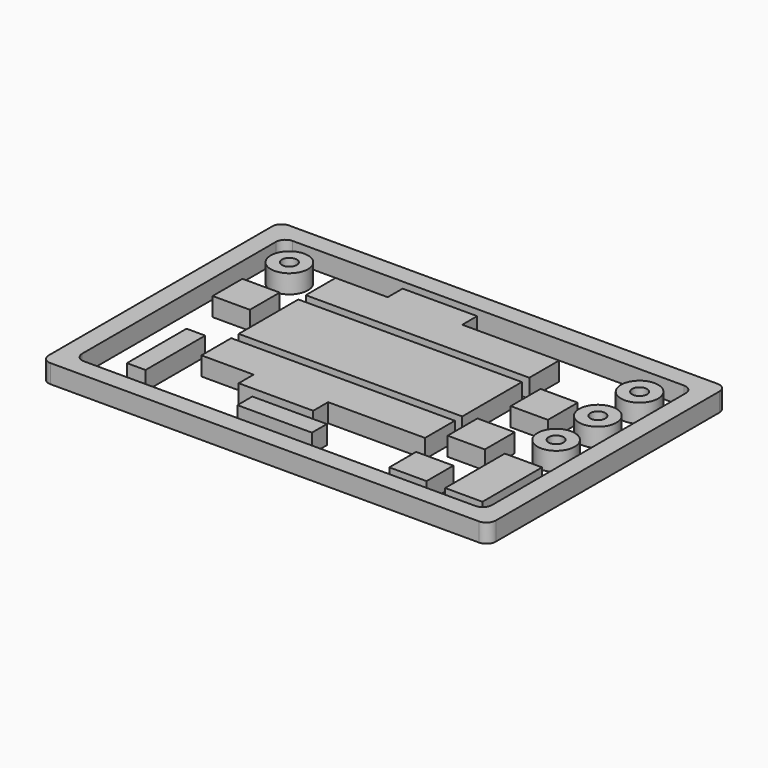
from build123d import *

# Parameters (mm, degrees)
F1_DEPTH = 3.175
F2_R     = 3.175
F2_R_2   = 1.27
F3_DEPTH = 3.175
F4_W     = 38.1
F4_H     = 12.7
F4_W_2   = 6.35
F4_H_2   = 6.35
F5_DEPTH = 3.175
F6_W     = 12.7
F6_H     = 3.175
F6_W_2   = 6.35
F6_H_2   = 12.7
F6_H_3   = 5.715
F6_H_4   = 6.35
F7_DEPTH = 3.175
F8_W     = 3.175
F8_H     = 12.7
F8_W_2   = 12.7
F8_H_2   = 3.175
F9_DEPTH = 3.175


with BuildPart() as f1:
    # F0 (on Top) → F1 (new body)
    with BuildSketch(Plane.XY):
        with BuildLine():
            ThreePointArc((0, 1.5875), (0.464968, 0.464968), (1.5875, 0))
            Line((1.5875, 0), (74.6125, 0))
            ThreePointArc((74.6125, 0), (75.735032, 0.464968), (76.2, 1.5875))
            Line((76.2, 1.5875), (76.2, 49.2125))
            ThreePointArc((76.2, 49.2125), (75.735032, 50.335032), (74.6125, 50.8))
            Line((74.6125, 50.8), (1.5875, 50.8))
            ThreePointArc((1.5875, 50.8), (0.464968, 50.335032), (0, 49.2125))
            Line((0, 49.2125), (0, 1.5875))
        make_face()
        with BuildLine():
            Line((73.025, 46.0375), (73.025, 4.7625))
            ThreePointArc((73.025, 4.7625), (72.560032, 3.639968), (71.4375, 3.175))
            Line((71.4375, 3.175), (4.7625, 3.175))
            ThreePointArc((4.7625, 3.175), (3.639968, 3.639968), (3.175, 4.7625))
            Line((3.175, 4.7625), (3.175, 46.0375))
            ThreePointArc((3.175, 46.0375), (3.639968, 47.160032), (4.7625, 47.625))
            Line((4.7625, 47.625), (71.4375, 47.625))
            ThreePointArc((71.4375, 47.625), (72.560032, 47.160032), (73.025, 46.0375))
        make_face(mode=Mode.SUBTRACT)
    extrude(amount=F1_DEPTH)


with BuildPart() as f3:
    # F2 (on Top) → F3 (new body)
    with BuildSketch(Plane.XY):
        with Locations((67.945, 24.765)):
            Circle(F2_R)
        with Locations((67.945, 24.765)):
            Circle(F2_R_2, mode=Mode.SUBTRACT)
        with Locations((8.255, 42.545)):
            Circle(F2_R)
        with Locations((8.255, 42.545)):
            Circle(F2_R_2, mode=Mode.SUBTRACT)
        with Locations((67.945, 42.545)):
            Circle(F2_R)
        with Locations((67.945, 42.545)):
            Circle(F2_R_2, mode=Mode.SUBTRACT)
        with Locations((67.945, 33.655)):
            Circle(F2_R)
        with Locations((67.945, 33.655)):
            Circle(F2_R_2, mode=Mode.SUBTRACT)
    extrude(amount=F3_DEPTH)


with BuildPart() as f5:
    # F4 (on Top) → F5 (new body)
    with BuildSketch(Plane.XY):
        with Locations((34.925, 28.575)):
            Rectangle(F4_W, F4_H)
        with Locations((9.525, 31.75)):
            Rectangle(F4_W_2, F4_H_2)
        with Locations((60.325, 31.75)):
            Rectangle(F4_W_2, F4_H_2)
    extrude(amount=F5_DEPTH)


with BuildPart() as f7:
    # F6 (on Top) → F7 (new body)
    with BuildSketch(Plane.XY):
        Polygon((53.975, 20.6375), (15.875, 20.6375), (15.875, 14.2875), (24.765, 14.2875), (37.465, 14.2875), (53.975, 14.2875), align=None)
        with Locations((31.115, 12.7)):
            Rectangle(F6_W, F6_H)
        Polygon((15.875, 42.8625), (15.875, 36.5125), (53.975, 36.5125), (53.975, 42.8625), (37.465, 42.8625), (24.765, 42.8625), align=None)
        with Locations((31.115, 44.45)):
            Rectangle(F6_W, F6_H)
        with Locations((68.2625, 11.049)):
            Rectangle(F6_W_2, F6_H_2)
        with Locations((58.7375, 7.5565)):
            Rectangle(F6_W_2, F6_H_3)
        with Locations((59.089927, 19.859561)):
            Rectangle(F6_W_2, F6_H_4)
    extrude(amount=F7_DEPTH)


with BuildPart() as f9:
    # F8 (on Top) → F9 (new body)
    with BuildSketch(Plane.XY):
        with Locations((11.1125, 12.7)):
            Rectangle(F8_W, F8_H)
        with Locations((34.925, 7.664609)):
            Rectangle(F8_W_2, F8_H_2)
    extrude(amount=F9_DEPTH)


solid = Compound([f1.part, f3.part, f5.part, f7.part, f9.part])
